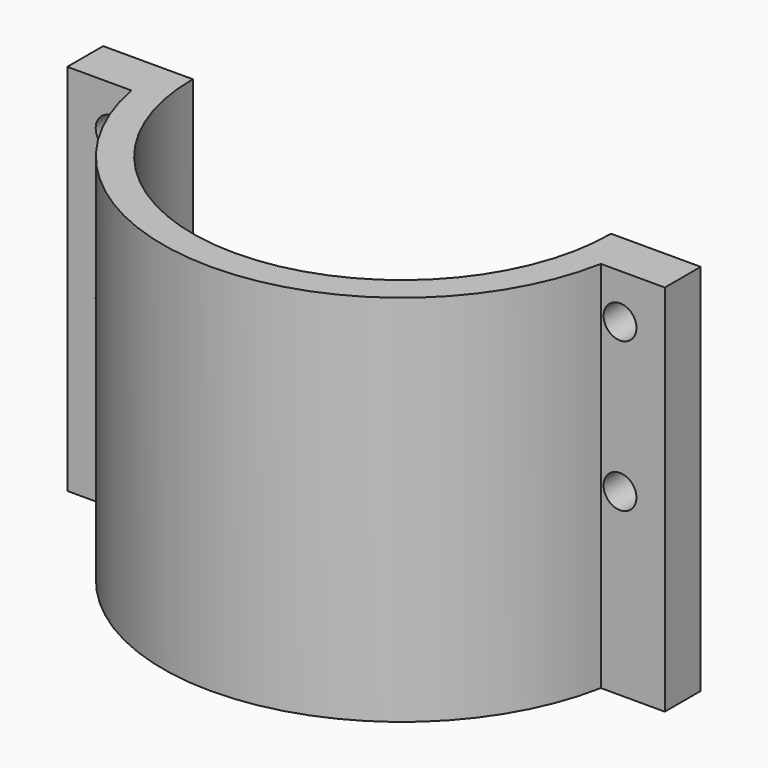
from build123d import *

# Parameters (mm, degrees)
PAD_DEPTH    = 25
SKETCH001_R  = 1.1
POCKET_DEPTH = 16.001


with BuildPart() as part:
    # Sketch → Pad (new body)
    with BuildSketch(Plane.XY):
        with BuildLine():
            Line((-15.716234, -3), (-20, -3))
            Line((-20, -3), (-20, 0))
            Line((-20, 0), (-14, 0))
            ThreePointArc((-14, 0), (0, -14), (14, 0))
            Line((14, 0), (20, 0))
            Line((20, 0), (20, -3))
            Line((20, -3), (15.716234, -3))
            ThreePointArc((-15.716234, -3), (0, -16), (15.716234, -3))
        make_face()
    extrude(amount=PAD_DEPTH)

    # Sketch001 → Pocket (cut, through all)
    with BuildSketch(Plane(origin=(0, 0, 0), x_dir=(-1, 0, 0), z_dir=(0, 1, 0))):
        with Locations((-17, 22)):
            Circle(SKETCH001_R)
        with Locations((-17, 12)):
            Circle(SKETCH001_R)
        with Locations((17, 22)):
            Circle(SKETCH001_R)
        with Locations((17, 12)):
            Circle(SKETCH001_R)
    extrude(amount=-POCKET_DEPTH, mode=Mode.SUBTRACT)


solid = part.part
